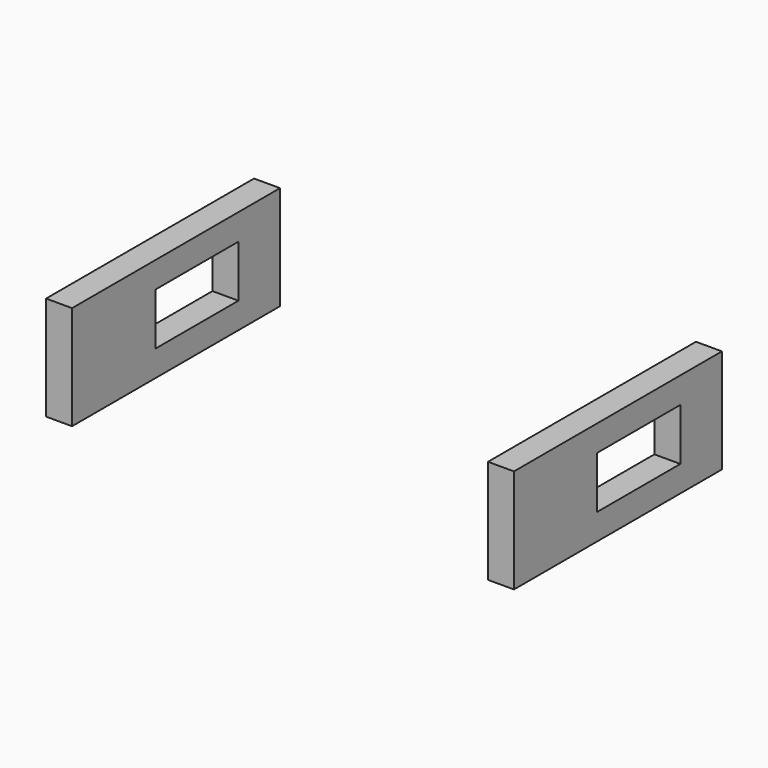
from build123d import *

# Parameters (mm, degrees)
SKETCH005_W  = 0.5
SKETCH005_H  = 2
PAD002_DEPTH = 5
SKETCH006_W  = 1
SKETCH006_H  = 2
POCKET_DEPTH = 11.317654


with BuildPart() as part:
    # Sketch005 (on Plane of DatumPlane) → Pad002 (new body)
    with BuildSketch(Plane(origin=(0, 0, 0), x_dir=(-1, 0, 0), z_dir=(0, 1, 0))):
        with Locations((4.25, -1)):
            Rectangle(SKETCH005_W, SKETCH005_H)
    pad002 = extrude(amount=PAD002_DEPTH)

    # Sketch006 (on Face2 of Pad002) → Pocket (cut, through all)
    with BuildSketch(Plane.ZY.offset(4.5)):
        with Locations((-1, 3)):
            Rectangle(SKETCH006_W, SKETCH006_H)
    pocket = extrude(amount=-POCKET_DEPTH, mode=Mode.SUBTRACT)

    # Mirrored: Pad002, Pocket across YZ
    add(pad002.mirror(Plane.YZ))
    add(pocket.mirror(Plane.YZ), mode=Mode.SUBTRACT)


solid = part.part
